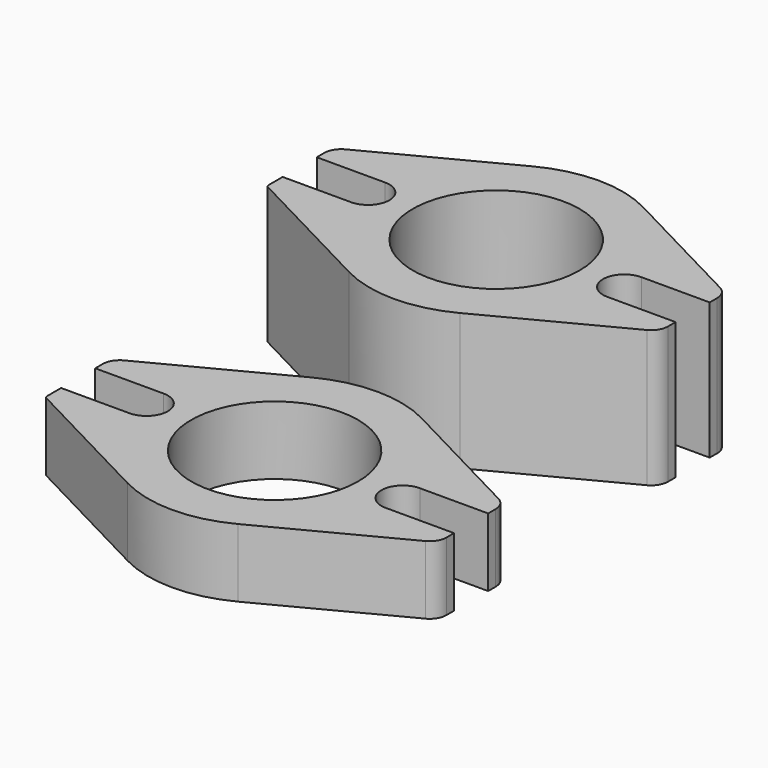
from build123d import *

# Parameters (mm, degrees)
F0_R     = 15.5
F1_DEPTH = 12.7
F2_R     = 15.5
F3_DEPTH = 25.4


with BuildPart() as f1:
    # F0 (on Top) → F1 (new body)
    with BuildSketch(Plane.XY):
        with BuildLine():
            ThreePointArc((34.804932, -8.509968), (36.052249, -7.340867), (36.5125, -5.694428))
            Line((36.5125, -5.694428), (36.5125, -3.9624))
            Line((36.5125, -3.9624), (23.8125, -3.9624))
            ThreePointArc((23.8125, -3.9624), (19.8501, 0), (23.8125, 3.9624))
            Line((23.8125, 3.9624), (36.5125, 3.9624))
            Line((36.5125, 3.9624), (36.5125, 5.694428))
            ThreePointArc((36.5125, 5.694428), (36.052249, 7.340867), (34.804932, 8.509968))
            Line((34.804932, 8.509968), (10.272027, 21.296282))
            ThreePointArc((10.272027, 21.296282), (0, 23.8125), (-10.272027, 21.296282))
            Line((-10.272027, 21.296282), (-34.804932, 8.509968))
            ThreePointArc((-34.804932, 8.509968), (-36.052249, 7.340867), (-36.5125, 5.694428))
            Line((-36.5125, 5.694428), (-36.5125, 3.9624))
            Line((-36.5125, 3.9624), (-23.8125, 3.9624))
            ThreePointArc((-23.8125, 3.9624), (-19.8501, 0), (-23.8125, -3.9624))
            Line((-23.8125, -3.9624), (-36.5125, -3.9624))
            Line((-36.5125, -3.9624), (-36.5125, -7.234886))
            ThreePointArc((-36.5125, -7.234886), (-36.42045, -7.564173), (-36.170986, -7.797994))
            Line((-36.170986, -7.797994), (-10.272027, -21.296282))
            ThreePointArc((-10.272027, -21.296282), (0, -23.8125), (10.272027, -21.296282))
            Line((10.272027, -21.296282), (34.804932, -8.509968))
        make_face()
        Circle(F0_R, mode=Mode.SUBTRACT)
    extrude(amount=F1_DEPTH)


with BuildPart() as f3:
    # F2 (on Top) → F3 (new body)
    with BuildSketch(Plane.XY):
        with BuildLine():
            ThreePointArc((33.715224, 44.318549), (34.962541, 45.48765), (35.422792, 47.13409))
            Line((35.422792, 47.13409), (35.422792, 48.866117))
            Line((35.422792, 48.866117), (22.722792, 48.866117))
            ThreePointArc((22.722792, 48.866117), (18.760392, 52.828517), (22.722792, 56.790917))
            Line((22.722792, 56.790917), (35.422792, 56.790917))
            Line((35.422792, 56.790917), (35.422792, 58.522945))
            ThreePointArc((35.422792, 58.522945), (34.962541, 60.169384), (33.715224, 61.338485))
            Line((33.715224, 61.338485), (9.182319, 74.124799))
            ThreePointArc((9.182319, 74.124799), (-1.089708, 76.641017), (-11.361735, 74.124799))
            Line((-11.361735, 74.124799), (-35.894641, 61.338485))
            ThreePointArc((-35.894641, 61.338485), (-37.141957, 60.169384), (-37.602208, 58.522945))
            Line((-37.602208, 58.522945), (-37.602208, 56.790917))
            Line((-37.602208, 56.790917), (-24.902208, 56.790917))
            ThreePointArc((-24.902208, 56.790917), (-20.939808, 52.828517), (-24.902208, 48.866117))
            Line((-24.902208, 48.866117), (-37.602208, 48.866117))
            Line((-37.602208, 48.866117), (-37.602208, 45.593632))
            ThreePointArc((-37.602208, 45.593632), (-37.510158, 45.264344), (-37.260695, 45.030524))
            Line((-37.260695, 45.030524), (-11.361735, 31.532235))
            ThreePointArc((-11.361735, 31.532235), (-1.089708, 29.016017), (9.182319, 31.532235))
            Line((9.182319, 31.532235), (33.715224, 44.318549))
        make_face()
        with Locations((-1.089708, 52.828517)):
            Circle(F2_R, mode=Mode.SUBTRACT)
    extrude(amount=F3_DEPTH)


solid = Compound([f1.part, f3.part])
